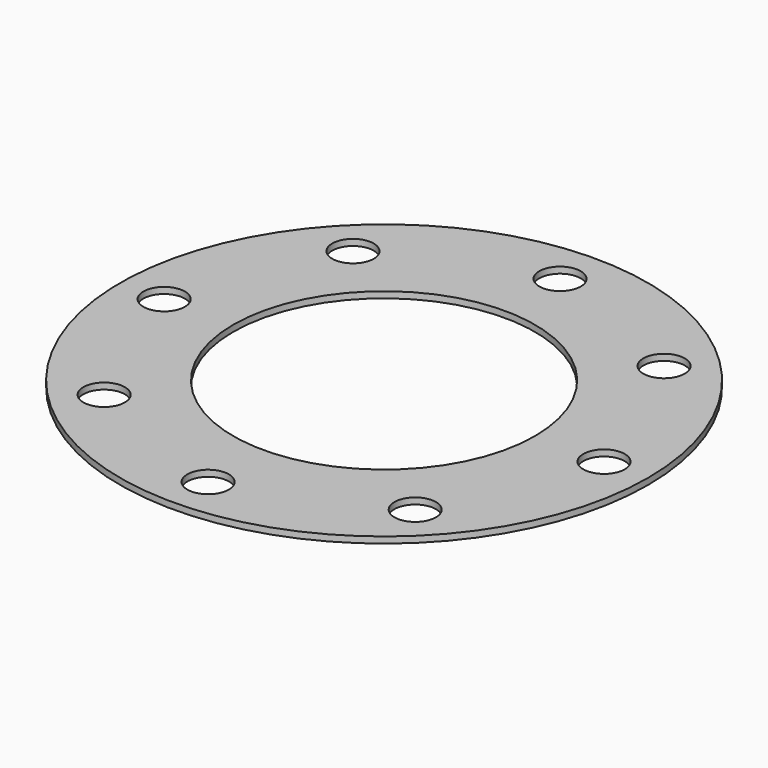
from build123d import *

# Parameters (mm, degrees)
F0_R     = 42
F0_R_2   = 3.3
F0_R_3   = 24
F1_DEPTH = 1


with BuildPart() as f1:
    # F0 (on Top) → F1 (new body)
    with BuildSketch(Plane.XY):
        Circle(F0_R)
        with Locations((-24.748737, -24.748737)):
            Circle(F0_R_2, mode=Mode.SUBTRACT)
        with Locations((0, -35)):
            Circle(F0_R_2, mode=Mode.SUBTRACT)
        with Locations((24.748737, -24.748737)):
            Circle(F0_R_2, mode=Mode.SUBTRACT)
        with Locations((-35, 0)):
            Circle(F0_R_2, mode=Mode.SUBTRACT)
        with Locations((-24.748737, 24.748737)):
            Circle(F0_R_2, mode=Mode.SUBTRACT)
        Circle(F0_R_3, mode=Mode.SUBTRACT)
        with Locations((35, 0)):
            Circle(F0_R_2, mode=Mode.SUBTRACT)
        with Locations((0, 35)):
            Circle(F0_R_2, mode=Mode.SUBTRACT)
        with Locations((24.748737, 24.748737)):
            Circle(F0_R_2, mode=Mode.SUBTRACT)
    extrude(amount=F1_DEPTH)


solid = f1.part
